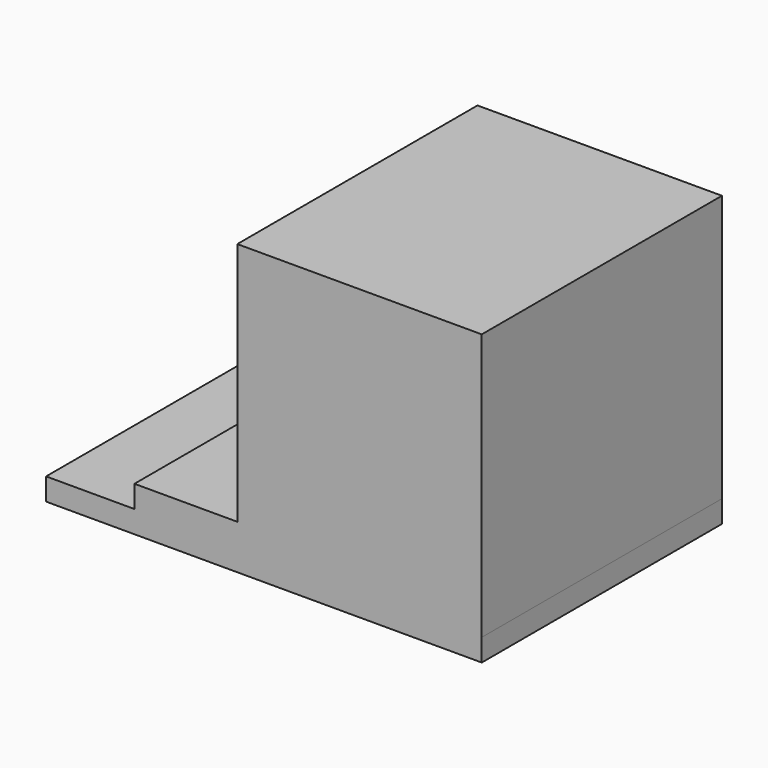
from build123d import *

# Parameters (mm, degrees)
F0_W     = 58.805938
F0_H     = 40.52332
F1_DEPTH = 3
F2_W     = 46.881379
F2_H     = 40.52332
F3_DEPTH = 3
F4_W     = 32.996017
F4_H     = 40.52332
F5_DEPTH = 3
F6_W     = 32.996017
F6_H     = 40.52332
F7_DEPTH = 30


with BuildPart() as f1:
    # F0 (on Top) → F1 (new body)
    with BuildSketch(Plane.XY):
        Rectangle(F0_W, F0_H)
    extrude(amount=F1_DEPTH)

    # F2 (on face) → F3 (join)
    with BuildSketch(Plane.XY.offset(3)):
        with Locations((5.962279, 0)):
            Rectangle(F2_W, F2_H)
    extrude(amount=F3_DEPTH)

    # F4 (on face) → F5 (join)
    with BuildSketch(Plane.XY.offset(6)):
        with Locations((12.90496, 0)):
            Rectangle(F4_W, F4_H)
    extrude(amount=F5_DEPTH)

    # F6 (on face) → F7 (join)
    with BuildSketch(Plane.XY.offset(9)):
        with Locations((12.90496, 0)):
            Rectangle(F6_W, F6_H)
    extrude(amount=F7_DEPTH)


solid = f1.part
